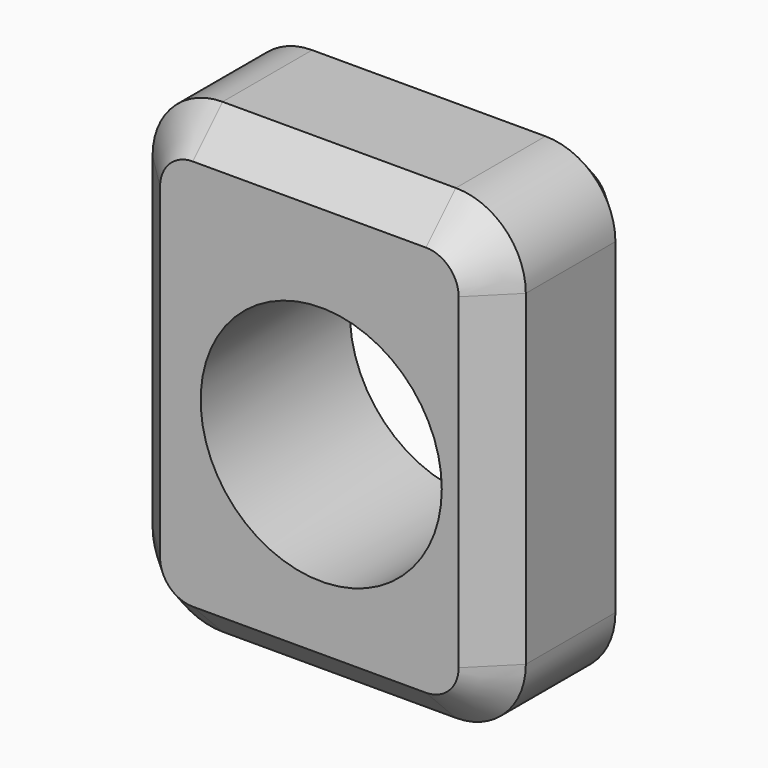
from build123d import *

# Parameters (mm, degrees)
F0_W     = 101.6
F0_H     = 50.8
F1_DEPTH = 127
F2_R     = 32.820623
F3_DEPTH = 120.243898
F4_R     = 19.05
F5_SIZE2 = 10.16
F5_SIZE  = 10.16


with BuildPart() as f1:
    # F0 (on Top) → F1 (new body)
    with BuildSketch(Plane.XY):
        with Locations((50.8, 25.4)):
            Rectangle(F0_W, F0_H)
    extrude(amount=F1_DEPTH)

    # F2 (on face) → F3 (cut)
    with BuildSketch(Plane.XZ):
        with Locations((54.029975, 60.365319)):
            Circle(F2_R)
    extrude(amount=-F3_DEPTH, mode=Mode.SUBTRACT)

    # F4
    f4_edges = [f1.edges().sort_by_distance(p)[0] for p in [
        (101.6, 25.4, 127),
        (0, 25.4, 127),
        (101.6, 25.4, 0),
        (0, 25.4, 0),
    ]]
    fillet(f4_edges, radius=F4_R)

    # F5
    f5_edges = [f1.edges().sort_by_distance(p)[0] for p in [
        (101.6, 0, 63.5),
        (0, 50.8, 63.5),
    ]]
    chamfer(f5_edges, length=F5_SIZE, length2=F5_SIZE2)


solid = f1.part
